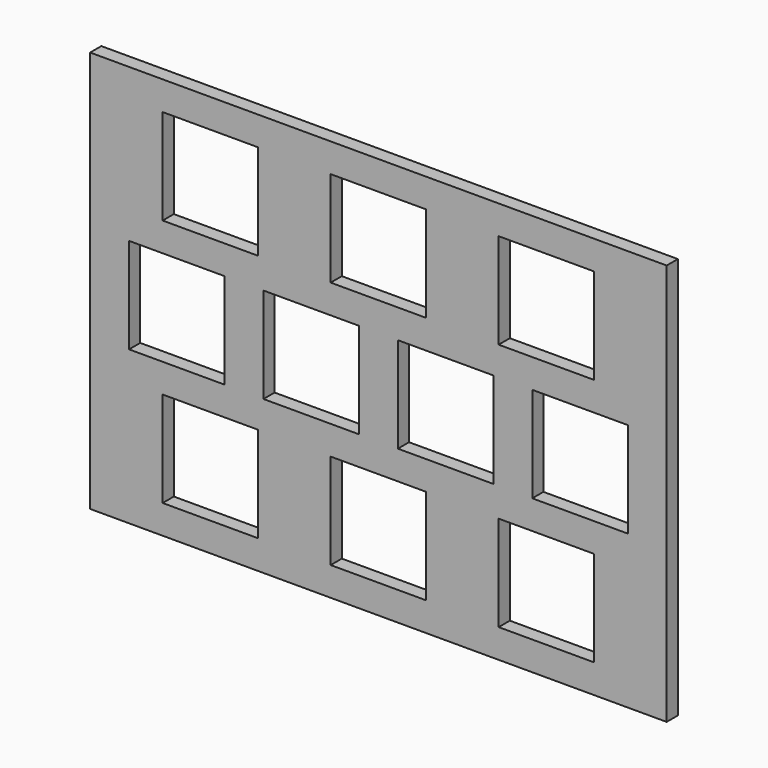
from build123d import *

# Parameters (mm, degrees)
F0_W     = 247.5
F0_H     = 172.5
F0_W_2   = 41
F0_H_2   = 41
F1_DEPTH = 6


with BuildPart() as f1:
    # F0 (on Front) → F1 (new body)
    with BuildSketch(Plane.XZ):
        Rectangle(F0_W, F0_H)
        with Locations((-72.125, -53.375)):
            Rectangle(F0_W_2, F0_H_2, mode=Mode.SUBTRACT)
        with Locations((0, -53.375)):
            Rectangle(F0_W_2, F0_H_2, mode=Mode.SUBTRACT)
        with Locations((72.125, -53.375)):
            Rectangle(F0_W_2, F0_H_2, mode=Mode.SUBTRACT)
        with Locations((-86.55, 0)):
            Rectangle(F0_W_2, F0_H_2, mode=Mode.SUBTRACT)
        with Locations((-28.85, 0)):
            Rectangle(F0_W_2, F0_H_2, mode=Mode.SUBTRACT)
        with Locations((-72.125, 53.375)):
            Rectangle(F0_W_2, F0_H_2, mode=Mode.SUBTRACT)
        with Locations((28.85, 0)):
            Rectangle(F0_W_2, F0_H_2, mode=Mode.SUBTRACT)
        with Locations((86.55, 0)):
            Rectangle(F0_W_2, F0_H_2, mode=Mode.SUBTRACT)
        with Locations((0, 53.375)):
            Rectangle(F0_W_2, F0_H_2, mode=Mode.SUBTRACT)
        with Locations((72.125, 53.375)):
            Rectangle(F0_W_2, F0_H_2, mode=Mode.SUBTRACT)
    extrude(amount=F1_DEPTH)


solid = f1.part
